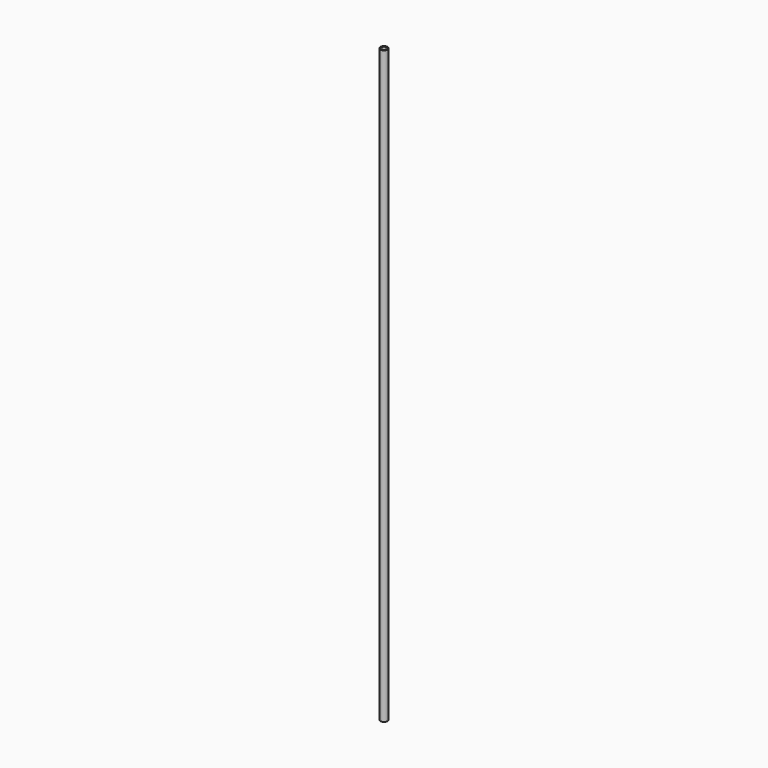
from build123d import *

# Parameters (mm, degrees)
SKETCH_R   = 2.5
SKETCH_R_2 = 1.75
PAD_DEPTH  = 400


with BuildPart() as part:
    # Sketch → Pad (new body)
    with BuildSketch(Plane.XY):
        Circle(SKETCH_R)
        Circle(SKETCH_R_2, mode=Mode.SUBTRACT)
    extrude(amount=PAD_DEPTH)


solid = part.part
